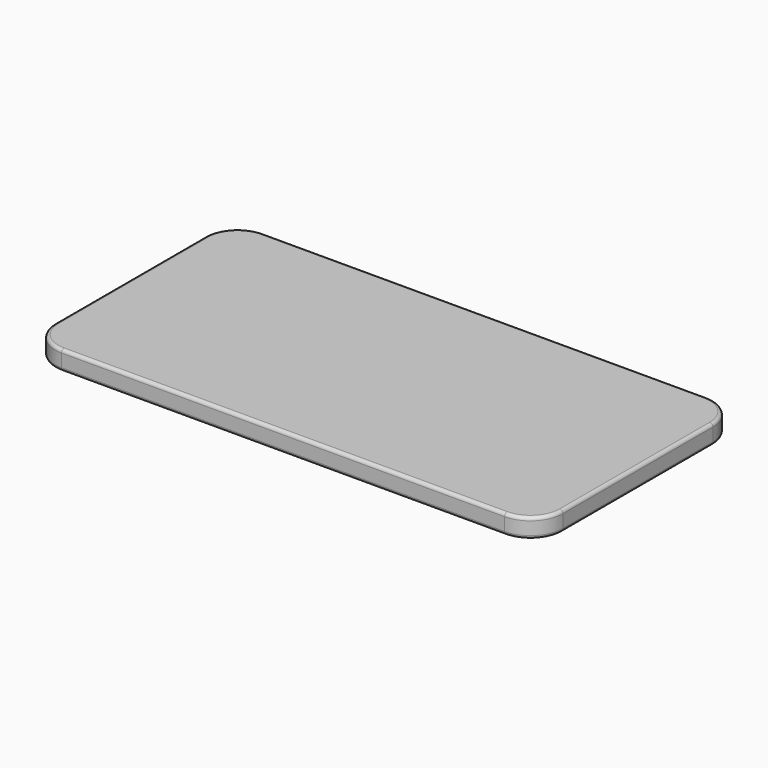
from build123d import *

# Parameters (mm, degrees)
F0_W     = 3987.8
F0_H     = 152.4
F1_DEPTH = 990.6
F2_R     = 254
F3_R     = 254
F4_R     = 25.4
F5_R     = 25.4
F6_R     = 88.9
F7_DEPTH = 25.4


with BuildPart() as f1:
    # F0 (on Front) → F1 (new body, symmetric)
    with BuildSketch(Plane.XZ):
        Rectangle(F0_W, F0_H)
    extrude(amount=F1_DEPTH, both=True)

    # F2
    f2_edges = [f1.edges().sort_by_distance(p)[0] for p in [
        (-1993.9, -990.6, 0),
        (1993.9, -990.6, 0),
        (1993.9, 990.6, 0),
    ]]
    fillet(f2_edges, radius=F2_R)

    # F3
    f3_edges = [f1.edges().sort_by_distance(p)[0] for p in [
        (-1993.9, 990.6, 0),
    ]]
    fillet(f3_edges, radius=F3_R)

    # F4
    f4_edges = [f1.edges().sort_by_distance(p)[0] for p in [
        (0, -990.6, -76.2),
        (1919.505122, -916.205122, -76.2),
        (1993.9, 0, -76.2),
        (1919.505122, 916.205122, -76.2),
        (0, 990.6, -76.2),
        (-1919.505122, 916.205122, -76.2),
        (-1993.9, 0, -76.2),
        (-1919.505122, -916.205122, -76.2),
    ]]
    fillet(f4_edges, radius=F4_R)

    # F5
    f5_edges = [f1.edges().sort_by_distance(p)[0] for p in [
        (1919.505122, -916.205122, 76.2),
        (0, -990.6, 76.2),
        (-1919.505122, -916.205122, 76.2),
        (-1993.9, 0, 76.2),
        (-1919.505122, 916.205122, 76.2),
        (0, 990.6, 76.2),
        (1919.505122, 916.205122, 76.2),
        (1993.9, 0, 76.2),
    ]]
    fillet(f5_edges, radius=F5_R)

    # F6 (on face) → F7 (cut)
    with BuildSketch(Plane(origin=(0, 0, -76.2), x_dir=(1, 0, 0), z_dir=(0, 0, -1))):
        with Locations((-1790.7, -635)):
            Circle(F6_R)
    extrude(amount=-F7_DEPTH, mode=Mode.SUBTRACT)


solid = f1.part
